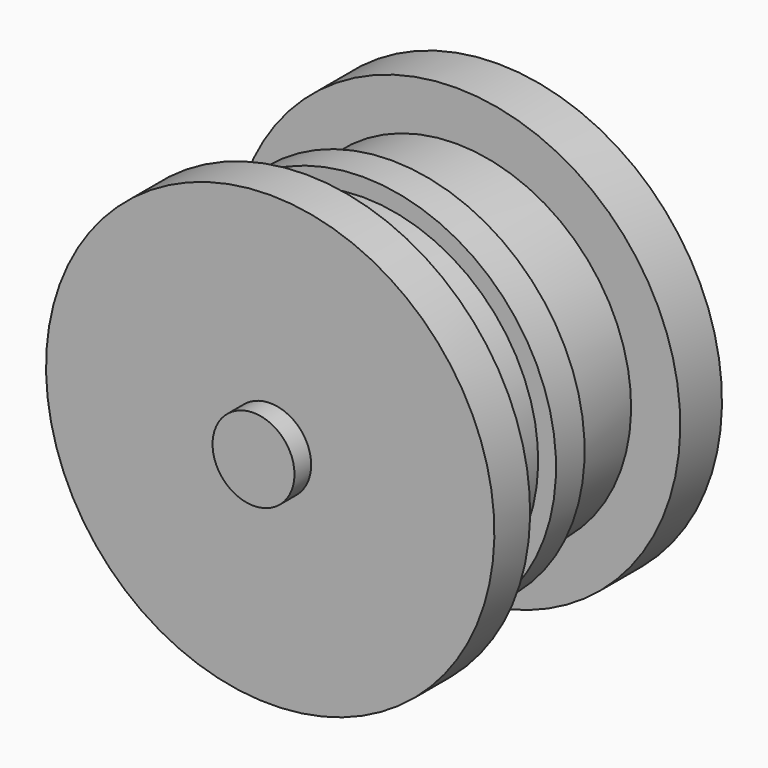
from build123d import *

# Parameters (mm, degrees)
F0_R     = 6.35
F1_DEPTH = 50.8


with BuildPart() as f1:
    # F0 (on Front) → F1 (new body)
    with BuildSketch(Plane.XZ):
        Circle(F0_R)
    extrude(amount=F1_DEPTH)

    # F2 (on Right) → F3 (revolve)
    with BuildSketch(Plane.YZ):
        Polygon((-11.545455, 0), (-3.463636, 0), (-3.463636, 34.751818), (-11.545455, 34.751818), (-11.545455, 27.131818), (-24.014546, 27.131818), (-24.014546, 29.902726), (-29.556363, 29.902726), (-29.556363, 27.131818), (-40.64, 27.131818), (-40.64, 34.751818), (-47.567271, 34.751818), (-47.567271, 27.131818), (-47.567271, 0), (-40.64, 0), align=None)
    revolve(axis=Axis((0, -29.556363, 0), (0, -1, 0)))


solid = f1.part
